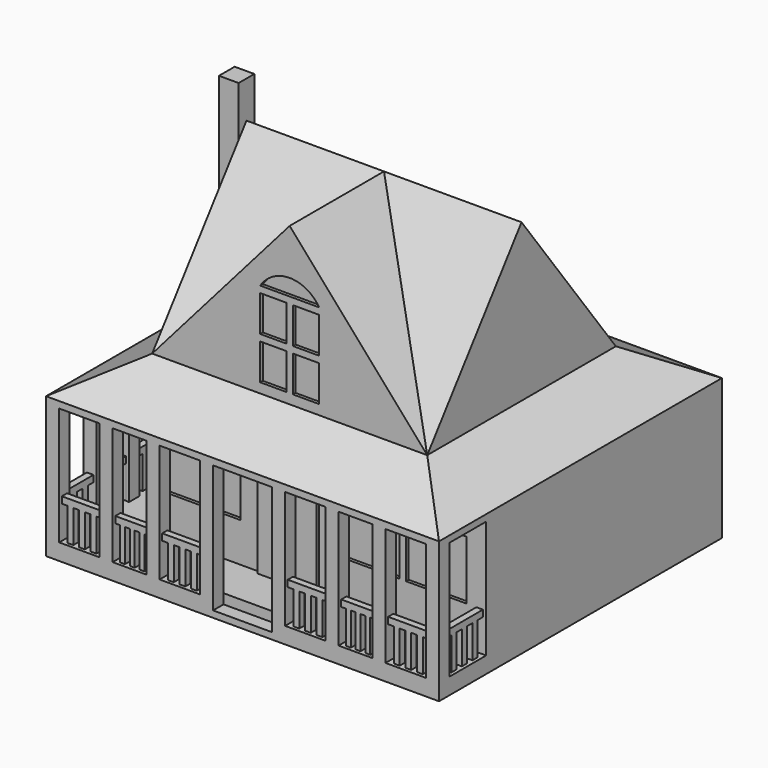
from build123d import *

# Parameters (mm, degrees)
F0_W      = 6096
F0_H      = 5486.4
F1_DEPTH  = 254
F2_W      = 101.6
F2_H      = 711.2
F2_W_2    = 626.5333333333
F2_H_2    = 101.6
F2_W_3    = 524.9333333333
F2_H_3    = 524.9333333333
F2_H_4    = 423.3333333333
F2_W_4    = 711.2
F3_DEPTH  = 1828.8
F4_W      = 626.5333333333
F4_H      = 1219.2
F4_W_2    = 524.9333333333
F4_W_3    = 89.5047619048
F4_H_2    = 508
F4_W_4    = 74.9904761905
F5_DEPTH  = 101.6
F6_W      = 524.9333333333
F6_H      = 1219.2
F6_W_2    = 423.3333333333
F6_W_3    = 508.4101307233
F6_W_4    = 104.9866666667
F6_H_2    = 508
F6_W_5    = 85.4060939535
F6_W_6    = 100.580479304
F6_W_7    = 84.6666666667
F7_DEPTH  = 101.6
F8_W      = 711.2
F8_H      = 1219.2
F8_W_2    = 101.6
F8_H_2    = 508
F9_DEPTH  = 101.6
F10_W     = 711.2
F10_H     = 1219.2
F10_W_2   = 101.6
F10_H_2   = 508
F11_DEPTH = 101.6
F12_W     = 5181.6
F12_H     = 4572
F13_DEPTH = 4876.8
F14_W     = 6096
F14_H     = 609.6
F15_DEPTH = 914.4
F16_W     = 4572
F16_H     = 609.6
F17_DEPTH = 914.4
F19_DEPTH = 5486.401
F21_DEPTH = 6096.001
F24_DEPTH = 5486.401
F25_DEPTH = 6096.001
F28_DEPTH = 5181.601
F29_DEPTH = 1828.8
F30_W     = 304.8
F30_H     = 3470.8132026672
F31_DEPTH = 304.8
F33_DEPTH = 50.8
F34_W     = 914.4
F34_H     = 1524
F35_DEPTH = 50.8
F36_W     = 406.4000000173
F36_H     = 558.8
F37_DEPTH = 50.8
F38_W     = 939.8
F38_H     = 914.4
F38_W_2   = 1151.4666666667
F39_DEPTH = 50.8
F40_W     = 834.7763126363
F40_H     = 914.4
F40_W_2   = 740.0236873637
F40_W_3   = 948.2666666667
F41_DEPTH = 50.8
F42_W     = 203.2
F42_H     = 914.4
F42_W_2   = 914.4
F42_H_2   = 203.2
F43_DEPTH = 152.4


with BuildPart() as f1:
    # F0 (on Top) → F1 (new body)
    with BuildSketch(Plane.XY):
        Rectangle(F0_W, F0_H)
    extrude(amount=F1_DEPTH)

    # F2 (on face) → F3 (join)
    with BuildSketch(Plane.XY.offset(254)):
        Polygon((2844.8, -2743.2), (3048, -2743.2), (3048, -2540), (2997.2, -2540), (2895.6, -2540), (2844.8, -2540), (2844.8, -2590.8), (2844.8, -2692.4), align=None)
        with Locations((2946.4, -2184.4)):
            Rectangle(F2_W, F2_H)
        with Locations((2531.5333333333, -2641.6)):
            Rectangle(F2_W_2, F2_H_2)
        Polygon((2218.2666666667, -2743.2), (2218.2666666667, -2692.4), (2218.2666666667, -2590.8), (2218.2666666667, -2540), (2015.0666666667, -2540), (2015.0666666667, -2590.8), (2015.0666666667, -2692.4), (2015.0666666667, -2743.2), align=None)
        with Locations((1752.6, -2641.6)):
            Rectangle(F2_W_3, F2_H_2)
        Polygon((1490.1333333333, -2743.2), (1490.1333333333, -2692.4), (1490.1333333333, -2590.8), (1490.1333333333, -2540), (1286.9333333333, -2540), (1286.9333333333, -2590.8), (1286.9333333333, -2692.4), (1286.9333333333, -2743.2), align=None)
        with Locations((973.6666666667, -2641.6)):
            Rectangle(F2_W_2, F2_H_2)
        Polygon((660.4, -2743.2), (660.4, -2692.4), (660.4, -2590.8), (660.4, -2540), (457.2, -2540), (457.2, -2743.2), align=None)
        Polygon((-660.4, -2743.2), (-457.2, -2743.2), (-457.2, -2540), (-660.4, -2540), (-660.4, -2590.8), (-660.4, -2692.4), align=None)
        with Locations((-973.6666666667, -2641.6)):
            Rectangle(F2_W_2, F2_H_2)
        Polygon((-1286.9333333333, -2743.2), (-1286.9333333333, -2692.4), (-1286.9333333333, -2590.8), (-1286.9333333333, -2540), (-1490.1333333333, -2540), (-1490.1333333333, -2590.8), (-1490.1333333333, -2692.4), (-1490.1333333333, -2743.2), align=None)
        with Locations((-1752.6, -2641.6)):
            Rectangle(F2_W_3, F2_H_2)
        Polygon((-2015.0666666667, -2743.2), (-2015.0666666667, -2692.4), (-2015.0666666667, -2590.8), (-2015.0666666667, -2540), (-2218.2666666667, -2540), (-2218.2666666667, -2590.8), (-2218.2666666667, -2692.4), (-2218.2666666667, -2743.2), align=None)
        with Locations((-2531.5333333333, -2641.6)):
            Rectangle(F2_W_2, F2_H_2)
        Polygon((-2844.8, -2743.2), (-2844.8, -2692.4), (-2844.8, -2590.8), (-2844.8, -2540), (-2895.6, -2540), (-2997.2, -2540), (-3048, -2540), (-3048, -2743.2), align=None)
        with Locations((-2946.4, -2277.5333333333)):
            Rectangle(F2_W, F2_H_3)
        Polygon((-2997.2, -2015.0666666667), (-2895.6, -2015.0666666667), (-2844.8, -2015.0666666667), (-2844.8, -1811.8666666667), (-2895.6, -1811.8666666667), (-2997.2, -1811.8666666667), (-3048, -1811.8666666667), (-3048, -2015.0666666667), align=None)
        with Locations((-2946.4, -1600.2)):
            Rectangle(F2_W, F2_H_4)
        Polygon((-2997.2, -1388.5333333333), (-2895.6, -1388.5333333333), (-2844.8, -1388.5333333333), (-2844.8, -1185.3333333333), (-2895.6, -1185.3333333333), (-2997.2, -1185.3333333333), (-3048, -1185.3333333333), (-3048, -1388.5333333333), align=None)
        with Locations((-2946.4, -922.8666666667)):
            Rectangle(F2_W, F2_H_3)
        Polygon((-2997.2, -660.4), (-2895.6, -660.4), (-2844.8, -660.4), (-2844.8, -457.2), (-3048, -457.2), (-3048, -660.4), align=None)
        Polygon((-3048, 660.4), (-3048, 457.2), (-2844.8, 457.2), (-2844.8, 660.4), (-2895.6, 660.4), (-2997.2, 660.4), align=None)
        with Locations((-2946.4, 922.8666666667)):
            Rectangle(F2_W, F2_H_3)
        Polygon((-3048, 1185.3333333333), (-2997.2, 1185.3333333333), (-2895.6, 1185.3333333333), (-2844.8, 1185.3333333333), (-2844.8, 1388.5333333333), (-2895.6, 1388.5333333333), (-2997.2, 1388.5333333333), (-3048, 1388.5333333333), align=None)
        with Locations((-2946.4, 1600.2)):
            Rectangle(F2_W, F2_H_4)
        Polygon((-3048, 1811.8666666667), (-2997.2, 1811.8666666667), (-2895.6, 1811.8666666667), (-2844.8, 1811.8666666667), (-2844.8, 2015.0666666667), (-2895.6, 2015.0666666667), (-2997.2, 2015.0666666667), (-3048, 2015.0666666667), align=None)
        with Locations((-2946.4, 2277.5333333333)):
            Rectangle(F2_W, F2_H_3)
        Polygon((-3048, 2540), (-2997.2, 2540), (-2895.6, 2540), (-2844.8, 2540), (-2844.8, 2590.8), (-2844.8, 2692.4), (-2844.8, 2743.2), (-3048, 2743.2), align=None)
        with Locations((-2489.2, 2641.6)):
            Rectangle(F2_W_4, F2_H_2)
    extrude(amount=F3_DEPTH)

    # F4 (on face) → F5 (cut)
    with BuildSketch(Plane.XZ.offset(2692.4)):
        with Locations((-2531.5333333333, 1473.2)):
            Rectangle(F4_W, F4_H)
        with Locations((2531.5333333333, 1473.2)):
            Rectangle(F4_W, F4_H)
        with Locations((1752.6, 1473.2)):
            Rectangle(F4_W_2, F4_H)
        with Locations((973.6666666667, 1473.2)):
            Rectangle(F4_W, F4_H)
        with Locations((-973.6666666667, 1473.2)):
            Rectangle(F4_W, F4_H)
        with Locations((-1752.6, 1473.2)):
            Rectangle(F4_W_2, F4_H)
        with Locations((2800.0476190476, 508)):
            Rectangle(F4_W_3, F4_H_2)
        with Locations((2621.0380952381, 508)):
            Rectangle(F4_W_3, F4_H_2)
        with Locations((2442.0285714286, 508)):
            Rectangle(F4_W_3, F4_H_2)
        with Locations((2263.019047619, 508)):
            Rectangle(F4_W_3, F4_H_2)
        with Locations((1977.5714285714, 508)):
            Rectangle(F4_W_4, F4_H_2)
        with Locations((1827.5904761905, 508)):
            Rectangle(F4_W_4, F4_H_2)
        with Locations((1677.6095238095, 508)):
            Rectangle(F4_W_4, F4_H_2)
        with Locations((1527.6285714286, 508)):
            Rectangle(F4_W_4, F4_H_2)
        with Locations((-705.1523809524, 508)):
            Rectangle(F4_W_3, F4_H_2)
        with Locations((-884.1619047619, 508)):
            Rectangle(F4_W_3, F4_H_2)
        with Locations((-1063.1714285714, 508)):
            Rectangle(F4_W_3, F4_H_2)
        with Locations((-1242.180952381, 508)):
            Rectangle(F4_W_3, F4_H_2)
        with Locations((-1527.6285714286, 508)):
            Rectangle(F4_W_4, F4_H_2)
        with Locations((-1677.6095238095, 508)):
            Rectangle(F4_W_4, F4_H_2)
        with Locations((-1827.5904761905, 508)):
            Rectangle(F4_W_4, F4_H_2)
        with Locations((-1977.5714285714, 508)):
            Rectangle(F4_W_4, F4_H_2)
        with Locations((-2800.0476190476, 508)):
            Rectangle(F4_W_3, F4_H_2)
        with Locations((-2621.0380952381, 508)):
            Rectangle(F4_W_3, F4_H_2)
        with Locations((-2442.0285714286, 508)):
            Rectangle(F4_W_3, F4_H_2)
        with Locations((-2263.019047619, 508)):
            Rectangle(F4_W_3, F4_H_2)
        with Locations((705.1523809524, 508)):
            Rectangle(F4_W_3, F4_H_2)
        with Locations((1242.180952381, 508)):
            Rectangle(F4_W_3, F4_H_2)
        with Locations((1063.1714285714, 508)):
            Rectangle(F4_W_3, F4_H_2)
        with Locations((884.1619047619, 508)):
            Rectangle(F4_W_3, F4_H_2)
    extrude(amount=-F5_DEPTH, mode=Mode.SUBTRACT)

    # F6 (on face) → F7 (cut)
    with BuildSketch(Plane(origin=(-2997.2, 0, 0), x_dir=(0, -1, 0), z_dir=(-1, 0, 0))):
        with Locations((2277.5333333333, 1473.2)):
            Rectangle(F6_W, F6_H)
        with Locations((1600.2, 1473.2)):
            Rectangle(F6_W_2, F6_H)
        with Locations((909.0973311583, 1473.2)):
            Rectangle(F6_W_3, F6_H)
        with Locations((-922.8666666667, 1473.2)):
            Rectangle(F6_W, F6_H)
        with Locations((-1600.2, 1473.2)):
            Rectangle(F6_W_2, F6_H)
        with Locations((-2277.5333333333, 1473.2)):
            Rectangle(F6_W, F6_H)
        with Locations((2067.56, 508)):
            Rectangle(F6_W_4, F6_H_2)
        with Locations((2277.5333333333, 508)):
            Rectangle(F6_W_4, F6_H_2)
        with Locations((2487.5066666667, 508)):
            Rectangle(F6_W_4, F6_H_2)
        with Locations((1769.1636196899, 508)):
            Rectangle(F6_W_5, F6_H_2)
        with Locations((1598.351431783, 508)):
            Rectangle(F6_W_5, F6_H_2)
        with Locations((1427.5392438761, 508)):
            Rectangle(F6_W_5, F6_H_2)
        with Locations((1113.012156868, 508)):
            Rectangle(F6_W_6, F6_H_2)
        with Locations((911.85119826, 508)):
            Rectangle(F6_W_6, F6_H_2)
        with Locations((710.690239652, 508)):
            Rectangle(F6_W_6, F6_H_2)
        with Locations((-712.8933333333, 508)):
            Rectangle(F6_W_4, F6_H_2)
        with Locations((-922.8666666667, 508)):
            Rectangle(F6_W_4, F6_H_2)
        with Locations((-1132.84, 508)):
            Rectangle(F6_W_4, F6_H_2)
        with Locations((-1600.2, 508)):
            Rectangle(F6_W_7, F6_H_2)
        with Locations((-1769.5333333333, 508)):
            Rectangle(F6_W_7, F6_H_2)
        with Locations((-2487.5066666667, 508)):
            Rectangle(F6_W_4, F6_H_2)
        with Locations((-2277.5333333333, 508)):
            Rectangle(F6_W_4, F6_H_2)
        with Locations((-2067.56, 508)):
            Rectangle(F6_W_4, F6_H_2)
    extrude(amount=-F7_DEPTH, mode=Mode.SUBTRACT)

    # F8 (on face) → F9 (cut)
    with BuildSketch(Plane(origin=(0, 2692.4, 0), x_dir=(-1, 0, 0), z_dir=(0, 1, 0))):
        with Locations((2489.2, 1473.2)):
            Rectangle(F8_W, F8_H)
        with Locations((2794, 508)):
            Rectangle(F8_W_2, F8_H_2)
        with Locations((2590.8, 508)):
            Rectangle(F8_W_2, F8_H_2)
        with Locations((2387.6, 508)):
            Rectangle(F8_W_2, F8_H_2)
        with Locations((2184.4, 508)):
            Rectangle(F8_W_2, F8_H_2)
    extrude(amount=-F9_DEPTH, mode=Mode.SUBTRACT)

    # F10 (on face) → F11 (cut)
    with BuildSketch(Plane.YZ.offset(2997.2)):
        with Locations((-2184.4, 1473.2)):
            Rectangle(F10_W, F10_H)
        with Locations((-2489.2, 508)):
            Rectangle(F10_W_2, F10_H_2)
        with Locations((-2286, 508)):
            Rectangle(F10_W_2, F10_H_2)
        with Locations((-2082.8, 508)):
            Rectangle(F10_W_2, F10_H_2)
        with Locations((-1879.6, 508)):
            Rectangle(F10_W_2, F10_H_2)
    extrude(amount=-F11_DEPTH, mode=Mode.SUBTRACT)

    # F12 (on face) → F13 (join)
    with BuildSketch(Plane.XY.offset(254)):
        with Locations((457.2, 457.2)):
            Rectangle(F12_W, F12_H)
    extrude(amount=F13_DEPTH)

    # F14 (on face) → F15 (join)
    with BuildSketch(Plane.XZ.offset(1828.8)):
        with Locations((0, 2387.6)):
            Rectangle(F14_W, F14_H)
    extrude(amount=F15_DEPTH)

    # F16 (on face) → F17 (join)
    with BuildSketch(Plane(origin=(-2133.6, 0, 0), x_dir=(0, -1, 0), z_dir=(-1, 0, 0))):
        with Locations((-457.2, 2387.6)):
            Rectangle(F16_W, F16_H)
    extrude(amount=F17_DEPTH)

    # F18 (on face) → F19 (cut, through all)
    with BuildSketch(Plane(origin=(0, 2743.2, 0), x_dir=(-1, 0, 0), z_dir=(0, 1, 0))):
        Polygon((3048, 2692.4), (2133.6, 2692.4), (3048, 2184.4), align=None)
    extrude(amount=-F19_DEPTH, mode=Mode.SUBTRACT)

    # F20 (on face) → F21 (cut, through all)
    with BuildSketch(Plane.YZ.offset(3048)):
        Polygon((-2743.2, 2184.4), (-1828.8, 2692.4), (-2743.2, 2692.4), align=None)
    extrude(amount=-F21_DEPTH, mode=Mode.SUBTRACT)

    # F22 (on face) → F24 (cut, through all)
    with BuildSketch(Plane(origin=(0, 2743.2, 0), x_dir=(-1, 0, 0), z_dir=(0, 1, 0))):
        Polygon((-3048, 5130.8), (-3048, 2184.4), (-2133.6000000347, 2692.4), (-2133.6000000347, 5130.8), align=None)
    extrude(amount=-F24_DEPTH, mode=Mode.SUBTRACT)

    # F23 (on face) → F25 (cut, through all)
    with BuildSketch(Plane.YZ.offset(3048)):
        Polygon((1828.8000000347, 2692.4), (2743.2, 2184.4), (2743.2, 5130.8), (1828.8000000347, 5130.8), align=None)
    extrude(amount=-F25_DEPTH, mode=Mode.SUBTRACT)

    # F27 (on face) → F28 (cut, through all)
    with BuildSketch(Plane(origin=(-2133.6, 0, 0), x_dir=(0, -1, 0), z_dir=(-1, 0, 0))):
        Polygon((-1828.8000000347, 2692.4), (-1.73e-08, 5130.8), (-1828.8000000347, 5130.8), align=None)
        Polygon((-1.73e-08, 5130.8), (1828.8, 2692.4), (1828.8, 5130.8), align=None)
    extrude(amount=-F28_DEPTH, mode=Mode.SUBTRACT)

    # F26 (on face) → F29 (join)
    with BuildSketch(Plane.XZ.offset(1828.8)):
        Polygon((1.73e-08, 5130.8), (-2133.6, 2692.4), (2133.6000000347, 2692.4), align=None)
    extrude(amount=-F29_DEPTH)

    # F30 (on face) → F31 (join)
    with BuildSketch(Plane(origin=(-2133.6, 0, 0), x_dir=(0, -1, 0), z_dir=(-1, 0, 0))):
        with Locations((0, 3970.6066013336)):
            Rectangle(F30_W, F30_H)
    extrude(amount=F31_DEPTH)

    # F36 (on face) → F37 (cut)
    with BuildSketch(Plane.XZ.offset(1828.8)):
        with Locations((-254.0000000087, 3124.2)):
            Rectangle(F36_W, F36_H)
        with Locations((-254.0000000087, 3784.6)):
            Rectangle(F36_W, F36_H)
        with Locations((254.0000000087, 3124.2)):
            Rectangle(F36_W, F36_H)
        with Locations((254.0000000087, 3784.6)):
            Rectangle(F36_W, F36_H)
        with BuildLine():
            ThreePointArc((457.2000000173, 4165.6), (0, 4419.6), (-457.2000000173, 4165.6))
            Line((-457.2000000173, 4165.6), (457.2000000173, 4165.6))
        make_face()
    extrude(amount=-F37_DEPTH, mode=Mode.SUBTRACT)

    # F38 (on face) → F39 (cut)
    with BuildSketch(Plane.XZ.offset(1828.8)):
        with Locations((2273.3, 1320.8)):
            Rectangle(F38_W, F38_H)
        with Locations((1231.9, 1320.8)):
            Rectangle(F38_W, F38_H)
        with Locations((-1337.7333333333, 1320.8)):
            Rectangle(F38_W_2, F38_H)
    extrude(amount=-F39_DEPTH, mode=Mode.SUBTRACT)

    # F40 (on face) → F41 (cut)
    with BuildSketch(Plane(origin=(-2133.6, 0, 0), x_dir=(0, -1, 0), z_dir=(-1, 0, 0))):
        with Locations((-2021.0118436819, 1320.8)):
            Rectangle(F40_W, F40_H)
        with Locations((-1132.0118436819, 1320.8)):
            Rectangle(F40_W_2, F40_H)
        with Locations((1236.1333333333, 1320.8)):
            Rectangle(F40_W_3, F40_H)
    extrude(amount=-F41_DEPTH, mode=Mode.SUBTRACT)

    # F42 (on face) → F43 (cut)
    with BuildSketch(Plane.XY.offset(254)):
        with Locations((-2946.4, 0)):
            Rectangle(F42_W, F42_H)
        with Locations((0, -2641.6)):
            Rectangle(F42_W_2, F42_H_2)
    extrude(amount=-F43_DEPTH, mode=Mode.SUBTRACT)


with BuildPart() as f33:
    # F32 (on face) → F33 (new body)
    with BuildSketch(Plane.XZ.offset(1828.8)):
        Polygon((457.2, 1778), (-457.2, 1778), (-457.2, 254), (-374.8548328876, 254), (288.3785367012, 254), (457.2, 254), align=None)
    extrude(amount=F33_DEPTH)


with BuildPart() as f35:
    # F34 (on face) → F35 (new body)
    with BuildSketch(Plane(origin=(-2133.6, 0, 0), x_dir=(0, -1, 0), z_dir=(-1, 0, 0))):
        with Locations((0, 1016)):
            Rectangle(F34_W, F34_H)
    extrude(amount=F35_DEPTH)


solid = Compound([f1.part, f33.part, f35.part])
